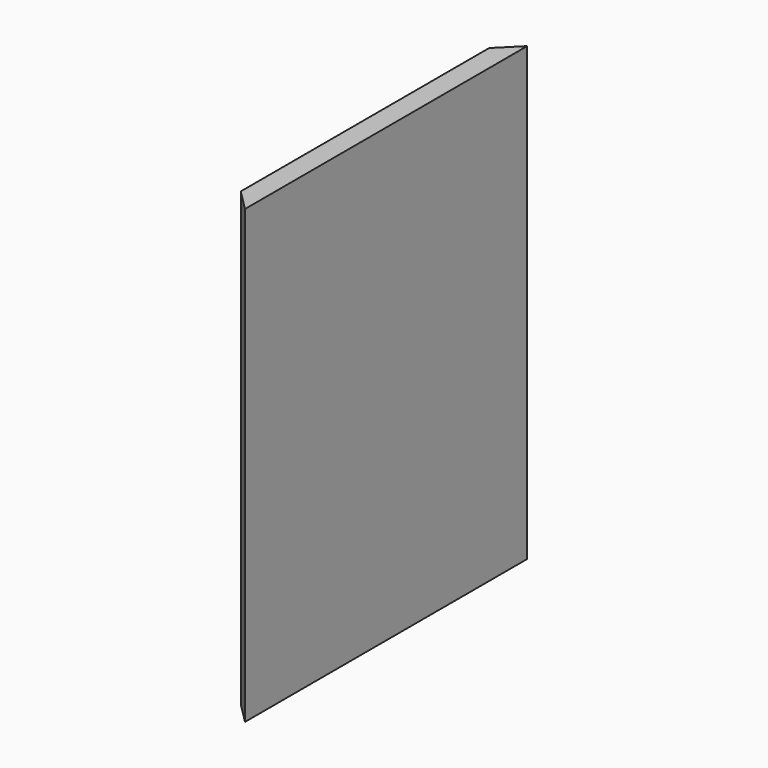
from build123d import *

# Parameters (mm, degrees)
F0_W     = 114.3
F0_H     = 1676.4
F1_DEPTH = 2438.4


with BuildPart() as f1:
    # F0 (on Top) → F1 (new body)
    with BuildSketch(Plane.XY):
        Polygon((57.15, -952.5), (57.15, -838.2), (-57.15, -838.2), align=None)
        Rectangle(F0_W, F0_H)
        Polygon((-57.15, 838.2), (57.15, 838.2), (57.15, 952.5), align=None)
    extrude(amount=F1_DEPTH)


solid = f1.part
